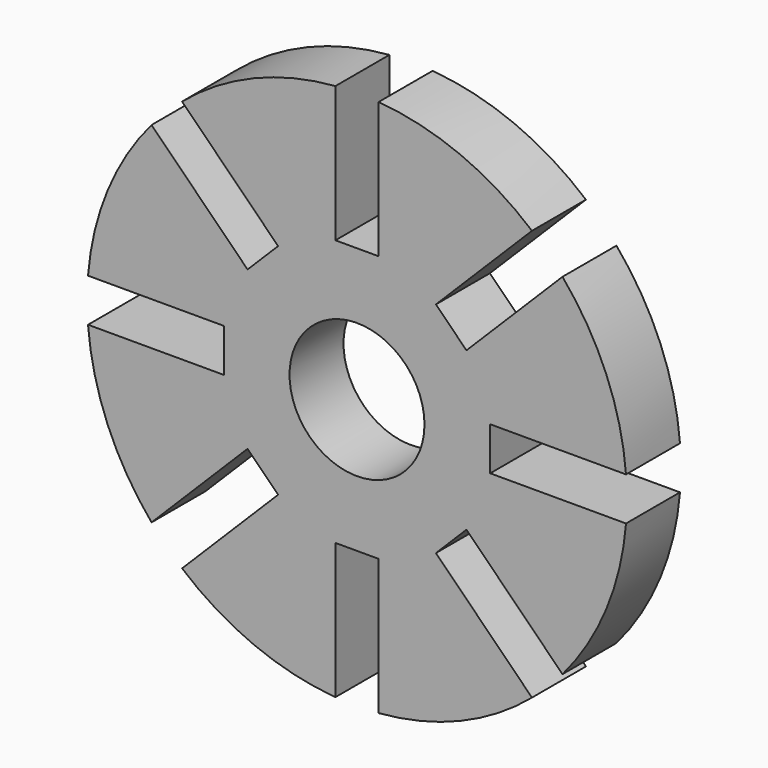
from build123d import *

# Parameters (mm, degrees)
F0_R     = 5
F1_DEPTH = 5
F2_DEPTH = 5


with BuildPart() as f1:
    # F0 (on Front) → F1 (new body)
    with BuildSketch(Plane.XZ):
        with BuildLine():
            Line((53.839718, 9.87117), (53.839718, 19.935897))
            ThreePointArc((53.839718, 19.935897), (47.786049, 18.477591), (42.474281, 15.228179))
            Line((42.474281, 15.228179), (49.591118, 8.111342))
            Line((49.591118, 8.111342), (47.328376, 5.8486))
            Line((47.328376, 5.8486), (40.211539, 12.965437))
            ThreePointArc((40.211539, 12.965437), (36.962127, 7.653669), (35.503821, 1.6))
            Line((35.503821, 1.6), (45.568548, 1.6))
            Line((45.568548, 1.6), (45.568548, -1.6))
            Line((45.568548, -1.6), (35.503821, -1.6))
            ThreePointArc((35.503821, -1.6), (36.962127, -7.653669), (40.211539, -12.965437))
            Line((40.211539, -12.965437), (47.328376, -5.8486))
            Line((47.328376, -5.8486), (49.591118, -8.111342))
            Line((49.591118, -8.111342), (42.474281, -15.228179))
            ThreePointArc((42.474281, -15.228179), (47.786049, -18.477591), (53.839718, -19.935897))
            Line((53.839718, -19.935897), (53.839718, -9.87117))
            Line((53.839718, -9.87117), (57.039718, -9.87117))
            Line((57.039718, -9.87117), (57.039718, -19.935897))
            ThreePointArc((57.039718, -19.935897), (63.093387, -18.477591), (68.405155, -15.228179))
            Line((68.405155, -15.228179), (61.288319, -8.111342))
            Line((61.288319, -8.111342), (63.55106, -5.8486))
            Line((63.55106, -5.8486), (70.667897, -12.965437))
            ThreePointArc((70.667897, -12.965437), (73.917309, -7.653669), (75.375615, -1.6))
            Line((75.375615, -1.6), (65.310888, -1.6))
            Line((65.310888, -1.6), (65.310888, 1.6))
            Line((65.310888, 1.6), (75.375615, 1.6))
            ThreePointArc((75.375615, 1.6), (73.917309, 7.653669), (70.667897, 12.965437))
            Line((70.667897, 12.965437), (63.55106, 5.8486))
            Line((63.55106, 5.8486), (61.288319, 8.111342))
            Line((61.288319, 8.111342), (68.405155, 15.228179))
            ThreePointArc((68.405155, 15.228179), (63.093387, 18.477591), (57.039718, 19.935897))
            Line((57.039718, 19.935897), (57.039718, 9.87117))
            Line((57.039718, 9.87117), (53.839718, 9.87117))
        make_face()
        with Locations((55.439718, 0)):
            Circle(F0_R, mode=Mode.SUBTRACT)
    extrude(amount=F1_DEPTH)

    # F0 (on Front) → F2 (join)
    with BuildSketch(Plane.XZ):
        with BuildLine():
            Line((53.839718, 9.87117), (53.839718, 19.935897))
            ThreePointArc((53.839718, 19.935897), (47.786049, 18.477591), (42.474281, 15.228179))
            Line((42.474281, 15.228179), (49.591118, 8.111342))
            Line((49.591118, 8.111342), (47.328376, 5.8486))
            Line((47.328376, 5.8486), (40.211539, 12.965437))
            ThreePointArc((40.211539, 12.965437), (36.962127, 7.653669), (35.503821, 1.6))
            Line((35.503821, 1.6), (45.568548, 1.6))
            Line((45.568548, 1.6), (45.568548, -1.6))
            Line((45.568548, -1.6), (35.503821, -1.6))
            ThreePointArc((35.503821, -1.6), (36.962127, -7.653669), (40.211539, -12.965437))
            Line((40.211539, -12.965437), (47.328376, -5.8486))
            Line((47.328376, -5.8486), (49.591118, -8.111342))
            Line((49.591118, -8.111342), (42.474281, -15.228179))
            ThreePointArc((42.474281, -15.228179), (47.786049, -18.477591), (53.839718, -19.935897))
            Line((53.839718, -19.935897), (53.839718, -9.87117))
            Line((53.839718, -9.87117), (57.039718, -9.87117))
            Line((57.039718, -9.87117), (57.039718, -19.935897))
            ThreePointArc((57.039718, -19.935897), (63.093387, -18.477591), (68.405155, -15.228179))
            Line((68.405155, -15.228179), (61.288319, -8.111342))
            Line((61.288319, -8.111342), (63.55106, -5.8486))
            Line((63.55106, -5.8486), (70.667897, -12.965437))
            ThreePointArc((70.667897, -12.965437), (73.917309, -7.653669), (75.375615, -1.6))
            Line((75.375615, -1.6), (65.310888, -1.6))
            Line((65.310888, -1.6), (65.310888, 1.6))
            Line((65.310888, 1.6), (75.375615, 1.6))
            ThreePointArc((75.375615, 1.6), (73.917309, 7.653669), (70.667897, 12.965437))
            Line((70.667897, 12.965437), (63.55106, 5.8486))
            Line((63.55106, 5.8486), (61.288319, 8.111342))
            Line((61.288319, 8.111342), (68.405155, 15.228179))
            ThreePointArc((68.405155, 15.228179), (63.093387, 18.477591), (57.039718, 19.935897))
            Line((57.039718, 19.935897), (57.039718, 9.87117))
            Line((57.039718, 9.87117), (53.839718, 9.87117))
        make_face()
        with Locations((55.439718, 0)):
            Circle(F0_R, mode=Mode.SUBTRACT)
    extrude(amount=F2_DEPTH)


solid = f1.part
